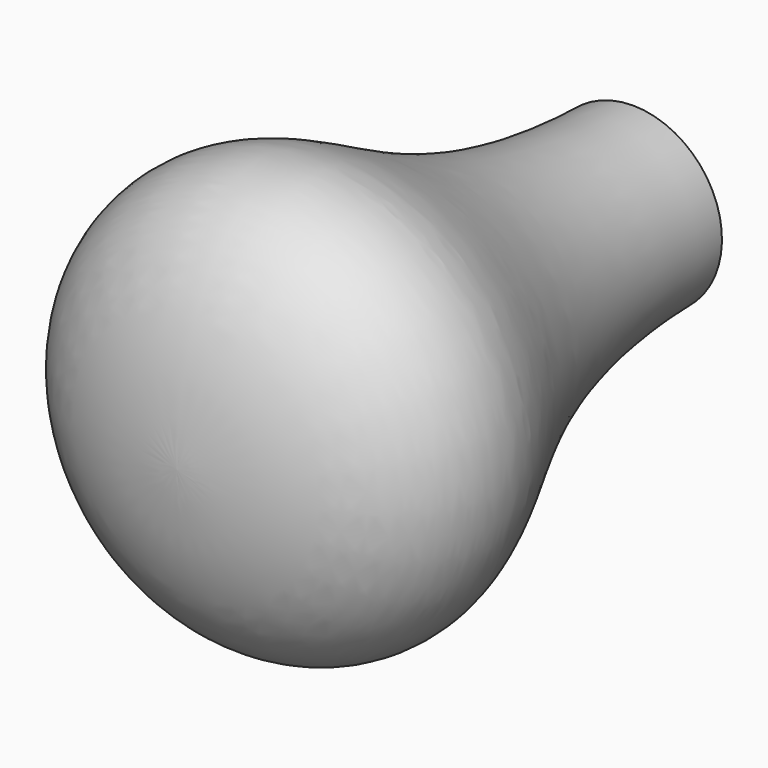
from build123d import *

# Parameters (mm, degrees)
F3_D     = 10.3
F3_DEPTH = 30.65
F3_TIP   = 3.094432188


with BuildPart() as f1:
    # F0 (on Right) → F1 (revolve)
    with BuildSketch(Plane.YZ):
        with BuildLine():
            add(Edge.make_bspline(
                [(-50.8, 0), (-50.5319202055, 14.476473596), (-34.2404022703, 25.8845236651), (-22.3101829974, 8.3674910788), (0, 7.9375)],
                knots=[0, 0, 0, 0, 0.4371277277, 1, 1, 1, 1], degree=3))
            Line((-50.8, 0), (0, 0))
            Line((0, 0), (0, 7.9375))
        make_face()
    revolve(axis=Axis((0, -25.4, 0), (0, 1, 0)))

    # F3
    with Locations(Plane(origin=(0, 0, 0), x_dir=(1, 0, 0), z_dir=(0, 1, 0))):
        with Locations((0, 0)):
            Hole(F3_D / 2, depth=F3_DEPTH)
            with Locations((0, 0, -(F3_DEPTH + F3_TIP / 2))):  # 118° drill point
                Cone(0, F3_D / 2, F3_TIP, mode=Mode.SUBTRACT)


solid = f1.part
